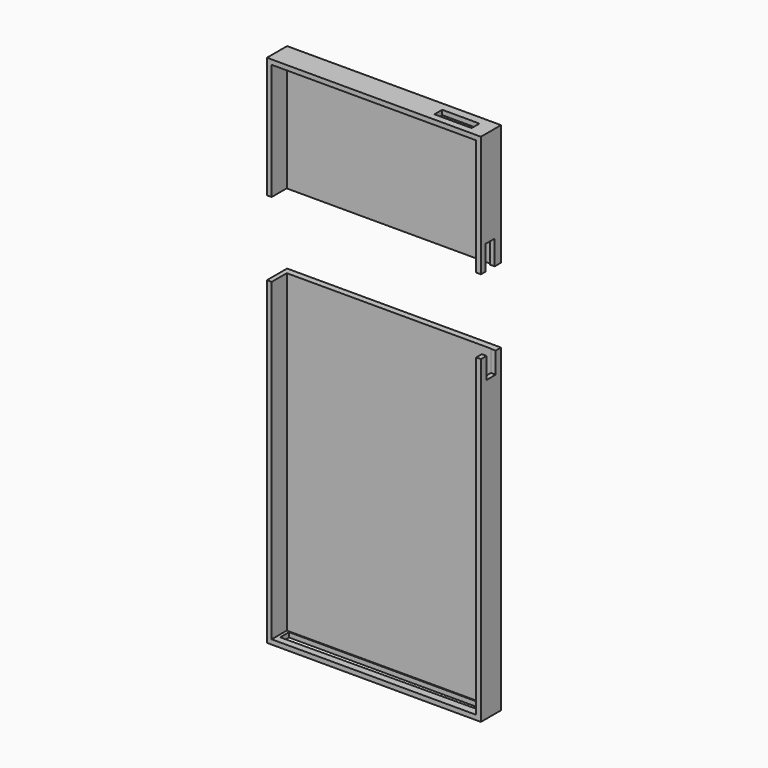
from build123d import *

# Parameters (mm, degrees)
F1_DEPTH  = 8
F2_W      = 65
F2_H      = 100
F3_DEPTH  = 2
F4_W      = 65
F4_H      = 37
F5_DEPTH  = 2
F7_DEPTH  = 1.5
F9_DEPTH  = 1.5
F10_W     = 3.540316131
F10_H     = 7.7811924219
F11_DEPTH = 1.5
F12_W     = 3.6324255634
F12_H     = 6.7319788039
F13_DEPTH = 1.5


with BuildPart() as f1:
    # F0 (on Front) → F1 (new body)
    with BuildSketch(Plane.XZ):
        Polygon((32.5, 110.737599194), (32.5, 73.737599194), (34, 73.737599194), (34, 112.237599194), (-34, 112.237599194), (-34, 73.737599194), (-32.5, 73.737599194), (-32.5, 110.737599194), align=None)
    extrude(amount=F1_DEPTH)

    # F4 (on Front) → F5 (join)
    with BuildSketch(Plane.XZ):
        with Locations((0, 92.2091004848)):
            Rectangle(F4_W, F4_H)
    extrude(amount=F5_DEPTH)

    # F8 (on face) → F9 (cut)
    with BuildSketch(Plane.XY.offset(112.237599194)):
        Polygon((29.2936004698, -2.7011381462), (17.4477100372, -2.6758047752), (17.4477100372, -5.7993703522), (29.2936004698, -5.7993703522), align=None)
    extrude(amount=-F9_DEPTH, mode=Mode.SUBTRACT)

    # F10 (on face) → F11 (cut)
    with BuildSketch(Plane.YZ.offset(34)):
        with Locations((-4.3051776011, 77.628195405)):
            Rectangle(F10_W, F10_H)
    extrude(amount=-F11_DEPTH, mode=Mode.SUBTRACT)


with BuildPart() as f1b:
    # F0 (on Front) → F1, piece 2 (new body)
    with BuildSketch(Plane.XZ):
        Polygon((34, 50), (32.5, 50), (32.5, -50), (-32.5, -50), (-32.5, 50), (-34, 50), (-34, -51.5), (34, -51.5), align=None)
    extrude(amount=F1_DEPTH)

    # F2 (on Front) → F3 (join)
    with BuildSketch(Plane.XZ):
        Rectangle(F2_W, F2_H)
    extrude(amount=F3_DEPTH)

    # F6 (on face) → F7 (cut)
    with BuildSketch(Plane(origin=(0, 0, -51.5), x_dir=(1, 0, 0), z_dir=(0, 0, -1))):
        Polygon((29.9283172935, 5.4762815125), (-31.5138846636, 5.850112997), (-31.5138846636, 2.3388296831), (29.9283172935, 2.3388296831), align=None)
    extrude(amount=-F7_DEPTH, mode=Mode.SUBTRACT)

    # F12 (on face) → F13 (cut)
    with BuildSketch(Plane.YZ.offset(34)):
        with Locations((-3.9292465663, 46.6340105981)):
            Rectangle(F12_W, F12_H)
    extrude(amount=-F13_DEPTH, mode=Mode.SUBTRACT)


solid = Compound([f1.part, f1b.part])
